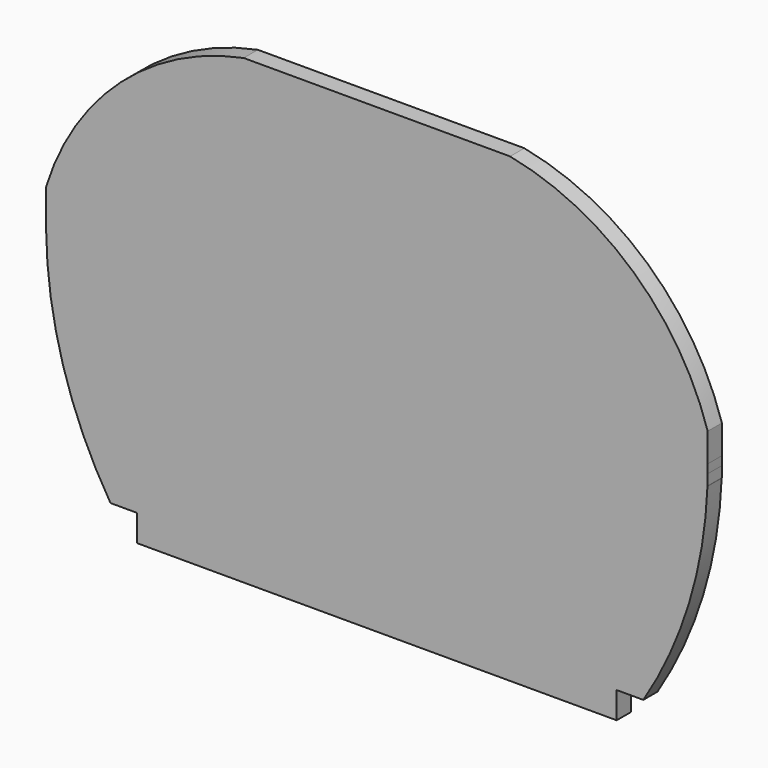
from build123d import *

# Parameters (mm, degrees)
F1_DEPTH = 2


with BuildPart() as f1:
    # F0 (on Front) → F1 (new body)
    with BuildSketch(Plane.XZ):
        with BuildLine():
            Line((-27, 0), (0, 0))
            Line((0, 0), (27, 0))
            Line((27, 0), (27, 3))
            Line((27, 3), (30, 3))
            ThreePointArc((30, 3), (35.15248, 14.275347), (37.21991, 26.498573))
            ThreePointArc((37.21991, 26.498573), (37.239202, 27.13437), (37.25, 27.770368))
            Line((37.25, 27.770368), (37.25, 28.750997))
            Line((37.25, 28.750997), (37.25, 32))
            ThreePointArc((37.25, 32), (28.881047, 45.066102), (15, 52))
            Line((15, 52), (0, 52))
            Line((0, 52), (-15, 52))
            ThreePointArc((-15, 52), (-28.881047, 45.066102), (-37.25, 32))
            Line((-37.25, 32), (-37.25, 28.750997))
            Line((-37.25, 28.750997), (-37.25, 27.770368))
            ThreePointArc((-37.25, 27.770368), (-35.335233, 14.884618), (-30, 3))
            Line((-30, 3), (-27, 3))
            Line((-27, 3), (-27, 0))
        make_face()
        with BuildLine():
            ThreePointArc((37.25, 27.770368), (37.239202, 27.13437), (37.21991, 26.498573))
            Line((37.21991, 26.498573), (37.25, 26.586605))
            Line((37.25, 26.586605), (37.25, 27.770368))
        make_face()
        with BuildLine():
            ThreePointArc((-37.25, 28.750997), (-37.252524, 28.260682), (-37.25, 27.770368))
            Line((-37.25, 27.770368), (-37.25, 28.750997))
        make_face()
        with BuildLine():
            Line((37.25, 28.750997), (37.25, 27.770368))
            ThreePointArc((37.25, 27.770368), (37.252524, 28.260682), (37.25, 28.750997))
        make_face()
    extrude(amount=F1_DEPTH)


solid = f1.part
